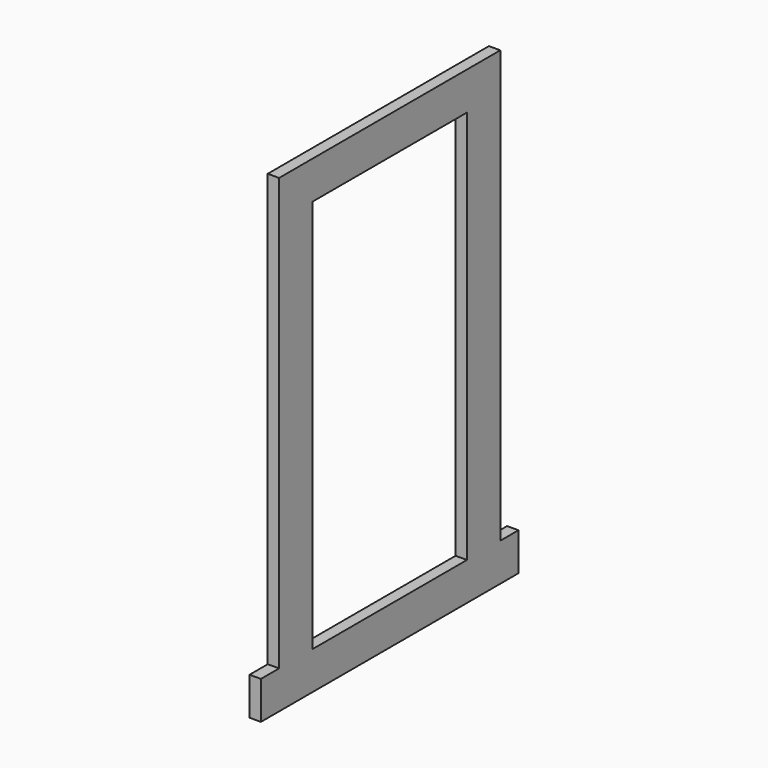
from build123d import *

# Parameters (mm, degrees)
F3_W     = 69.85
F3_H     = 660.4
F4_DEPTH = 19.05


with BuildPart() as f4:
    # F3 (on Right) → F4 (new body)
    with BuildSketch(Plane.YZ):
        with Locations((196.85, 393.7)):
            Rectangle(F3_W, F3_H)
        with Locations((-196.85, 393.7)):
            Rectangle(F3_W, F3_H)
        Polygon((161.925, 723.9), (231.775, 723.9), (231.775, 787.4), (-231.775, 787.4), (-231.775, 723.9), (-161.925, 723.9), align=None)
        Polygon((-269.875, 0), (269.875, 0), (269.875, 63.5), (231.775, 63.5), (161.925, 63.5), (-161.925, 63.5), (-231.775, 63.5), (-269.875, 63.5), align=None)
    extrude(amount=F4_DEPTH)


solid = f4.part
